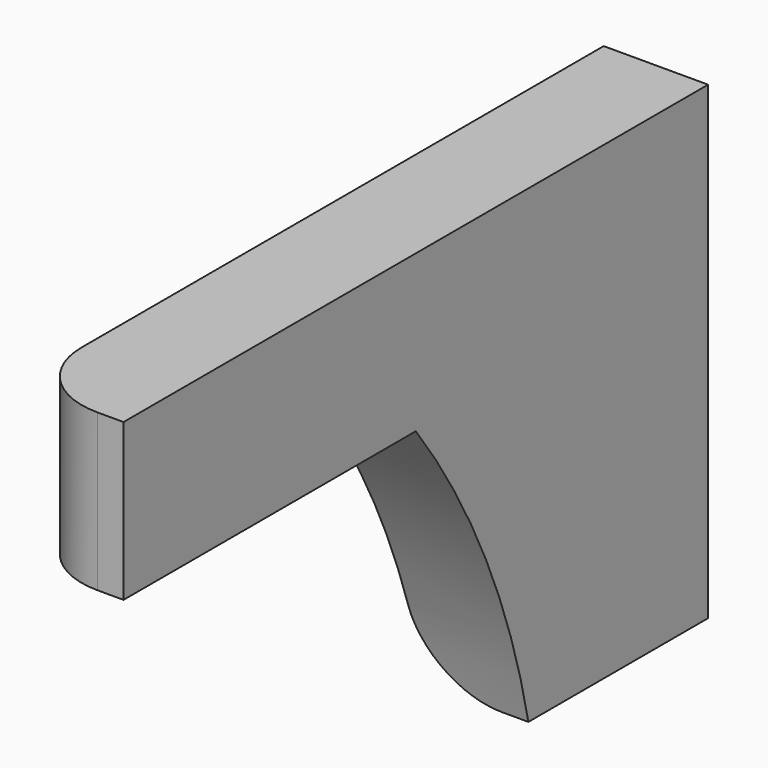
from build123d import *

# Parameters (mm, degrees)
CYLINDER099_R     = 15
CYLINDER099_DEPTH = 4
BOX253_W          = 2
BOX253_H          = 10
BOX253_DEPTH      = 6
BOX252_W          = 2
BOX252_H          = 14
BOX252_DEPTH      = 3
FILLET065_R       = 1.5


with BuildPart() as cylinder179:
    # Cylinder099 → Cylinder099 (new body)
    with BuildSketch(Plane(origin=(85, 31, -15), x_dir=(0, 0, -1), z_dir=(1, 0, 0))):
        Circle(CYLINDER099_R)
    extrude(amount=CYLINDER099_DEPTH)


with BuildPart() as cut131:
    # Box253 → Box253 (new body)
    with BuildSketch(Plane(origin=(86, 40, -12), x_dir=(1, 0, 0), z_dir=(0, 0, 1))):
        with Locations((1, 5)):
            Rectangle(BOX253_W, BOX253_H)
    extrude(amount=BOX253_DEPTH)

    # Cut131: cut Cylinder179
    add(cylinder179.part, mode=Mode.SUBTRACT)


with BuildPart() as fillet065:
    # Box252 → Box252 (new body)
    with BuildSketch(Plane(origin=(86, 36, -6), x_dir=(1, 0, 0), z_dir=(0, 0, 1))):
        with Locations((1, 7)):
            Rectangle(BOX252_W, BOX252_H)
    extrude(amount=BOX252_DEPTH)

    # Fusion079: union Cut131
    add(cut131.part)

    # Fillet065
    fillet065_edges = [fillet065.edges().sort_by_distance(p)[0] for p in [
        (86, 36, -4.5),
        (86, 47.848469, -12),
    ]]
    fillet(fillet065_edges, radius=FILLET065_R)


solid = fillet065.part
